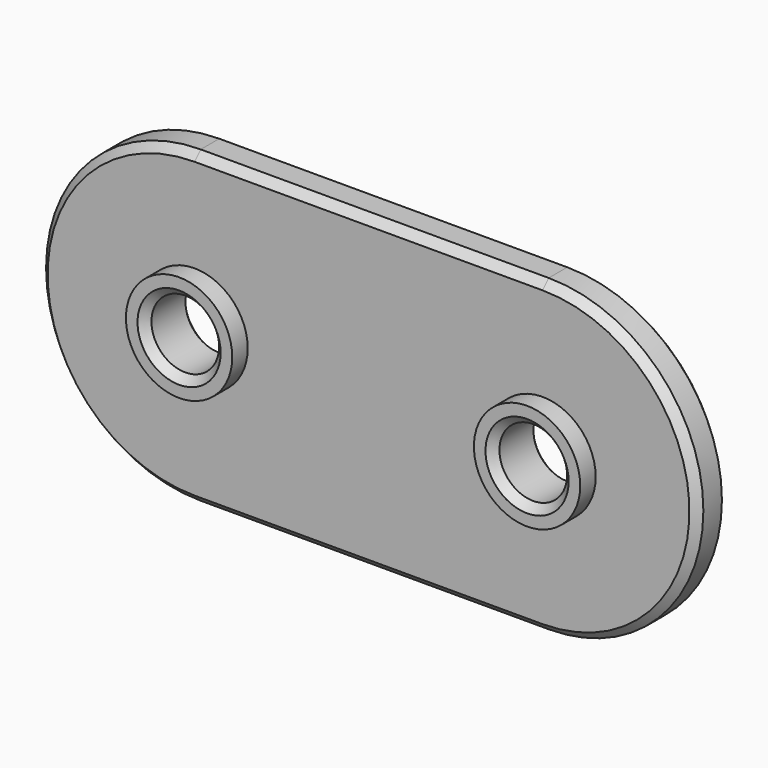
from build123d import *

# Parameters (mm, degrees)
F0_R     = 1.75
F1_DEPTH = 2
F2_R     = 2.75
F2_R_2   = 1.75
F3_DEPTH = 1
F4_SIZE  = 0.4


with BuildPart() as f1:
    # F0 (on Front) → F1 (new body)
    with BuildSketch(Plane.XZ):
        with BuildLine():
            ThreePointArc((-9, 8), (-17, 0), (-9, -8))
            Line((-9, -8), (9, -8))
            ThreePointArc((9, -8), (17, 0), (9, 8))
            Line((9, 8), (-9, 8))
        make_face()
        with Locations((-9, 0)):
            Circle(F0_R, mode=Mode.SUBTRACT)
        with Locations((9, 0)):
            Circle(F0_R, mode=Mode.SUBTRACT)
    extrude(amount=F1_DEPTH)

    # F2 (on face) → F3 (join)
    with BuildSketch(Plane.XZ.offset(2)):
        with Locations((-9, 0)):
            Circle(F2_R)
        with Locations((-9, 0)):
            Circle(F2_R_2, mode=Mode.SUBTRACT)
        with Locations((9, 0)):
            Circle(F2_R)
        with Locations((9, 0)):
            Circle(F2_R_2, mode=Mode.SUBTRACT)
    extrude(amount=F3_DEPTH)

    # F4
    f4_edges = [f1.edges().sort_by_distance(p)[0] for p in [
        (-17, -2, 0),
        (0, -2, -8),
        (0, -2, 8),
        (17, -2, 0),
        (0, 0, 8),
        (-17, 0, 0),
        (0, 0, -8),
        (17, 0, 0),
        (-10.75, 0, 0),
        (7.25, 0, 0),
        (-10.75, -3, 0),
        (7.25, -3, 0),
    ]]
    chamfer(f4_edges, length=F4_SIZE)


solid = f1.part
